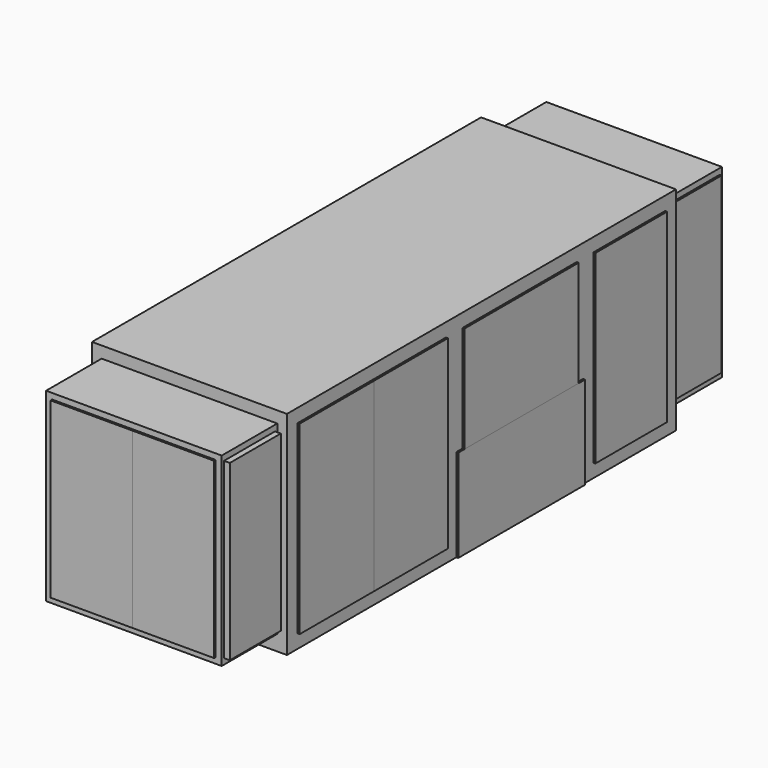
from build123d import *

# Parameters (mm, degrees)
F0_W          = 2565.4
F0_H          = 6400.8
F1_DEPTH      = 2794
F2_W          = 2311.4
F2_H          = 2438.4
F3_DEPTH      = 914.4
F3_DEPTH_BACK = 7315.2
F8_W          = 838.2
F8_H          = 2286
F7_W          = 1181.1
F7_H          = 2438.4
F7_W_2        = 2082.8
F7_H_2        = 1219.2
F13_DEPTH     = 25.4
F5_W          = 1076.325
F5_H          = 2286
F14_DEPTH     = 25.4
F15_DEPTH     = 25.4
F6_W          = 1879.6
F6_H          = 1397
F6_W_2        = 1219.2
F6_H_2        = 2438.4
F16_DEPTH     = 25.4
F10_W         = 838.2
F10_H         = 2286
F6_W_3        = 1181.1
F17_DEPTH     = 25.4
F18_DEPTH     = 76.2
F12_W         = 838.2
F12_H         = 2286
F19_DEPTH     = 76.2
F4_W          = 1076.325
F4_H          = 2286
F20_DEPTH     = 25.4
F21_DEPTH     = 25.4
F9_W          = 838.2
F9_H          = 2286
F22_DEPTH     = 25.4


with BuildPart() as f1:
    # F0 (on Top) → F1 (new body)
    with BuildSketch(Plane.XY):
        with Locations((1282.7, 3200.4)):
            Rectangle(F0_W, F0_H)
    extrude(amount=F1_DEPTH)

    # F2 (on face) → F3 (join, two sides)
    with BuildSketch(Plane.XZ) as f3_sk:
        with Locations((1282.7, 1422.4)):
            Rectangle(F2_W, F2_H)
    extrude(amount=F3_DEPTH)
    extrude(f3_sk.sketch, amount=-F3_DEPTH_BACK)


with BuildPart() as f13:
    # F8 (on face) + F7 (on face) → F13 (new body)
    with BuildSketch(Plane(origin=(127, 0, 0), x_dir=(0, -1, 0), z_dir=(-1, 0, 0))):
        with Locations((-6858, 1422.4)):
            Rectangle(F8_W, F8_H)
    with BuildSketch(Plane(origin=(0, 0, 0), x_dir=(0, -1, 0), z_dir=(-1, 0, 0))):
        with Locations((-5632.45, 1397)):
            Rectangle(F7_W, F7_H)
        with Locations((-3829.05, 609.6)):
            Rectangle(F7_W_2, F7_H_2)
    extrude(amount=F13_DEPTH)


with BuildPart() as f14:
    # F5 (on face) → F14 (new body)
    with BuildSketch(Plane(origin=(0, 7315.2, 0), x_dir=(-1, 0, 0), z_dir=(0, 1, 0))):
        with Locations((-744.5375, 1422.4)):
            Rectangle(F5_W, F5_H)
    extrude(amount=F14_DEPTH)


with BuildPart() as f15:
    # F5 (on face) → F15 (new body)
    with BuildSketch(Plane(origin=(0, 7315.2, 0), x_dir=(-1, 0, 0), z_dir=(0, 1, 0))):
        with Locations((-1820.8625, 1422.4)):
            Rectangle(F5_W, F5_H)
    extrude(amount=F15_DEPTH)


with BuildPart() as f16:
    # F6 (on face) → F16 (new body)
    with BuildSketch(Plane.YZ.offset(2565.4)):
        with Locations((3829.05, 1917.7)):
            Rectangle(F6_W, F6_H)
        with Locations((2006.6, 1397)):
            Rectangle(F6_W_2, F6_H_2)
    extrude(amount=F16_DEPTH)


with BuildPart() as f17:
    # F10 (on face) + F6 (on face) → F17 (new body)
    with BuildSketch(Plane.YZ.offset(2438.4)):
        with Locations((6858, 1422.4)):
            Rectangle(F10_W, F10_H)
    with BuildSketch(Plane.YZ.offset(2565.4)):
        with Locations((5632.45, 1397)):
            Rectangle(F6_W_3, F6_H_2)
        Polygon((2787.65, 1219.2), (2787.65, 0), (4870.45, 0), (4870.45, 1219.2), (4768.85, 1219.2), (2889.25, 1219.2), align=None)
        with Locations((787.4, 1397)):
            Rectangle(F6_W_2, F6_H_2)
    extrude(amount=F17_DEPTH)


with BuildPart() as f18:
    # F11 (on face) → F18 (new body)
    with BuildSketch(Plane(origin=(0, 0, 0), x_dir=(0, -1, 0), z_dir=(-1, 0, 0))):
        Polygon((-4768.85, 2616.2), (-4768.85, 1219.2), (-2787.65, 1219.2), (-2787.65, 177.8), (-177.8, 177.8), (-177.8, 2616.2), align=None)
    extrude(amount=F18_DEPTH)


with BuildPart() as f19:
    # F12 (on face) → F19 (new body)
    with BuildSketch(Plane.YZ.offset(2438.4)):
        with Locations((-457.2, 1422.4)):
            Rectangle(F12_W, F12_H)
    extrude(amount=F19_DEPTH)


with BuildPart() as f20:
    # F4 (on face) → F20 (new body)
    with BuildSketch(Plane.XZ.offset(914.4)):
        with Locations((1820.8625, 1422.4)):
            Rectangle(F4_W, F4_H)
    extrude(amount=F20_DEPTH)


with BuildPart() as f21:
    # F4 (on face) → F21 (new body)
    with BuildSketch(Plane.XZ.offset(914.4)):
        with Locations((744.5375, 1422.4)):
            Rectangle(F4_W, F4_H)
    extrude(amount=F21_DEPTH)


with BuildPart() as f22:
    # F9 (on face) → F22 (new body)
    with BuildSketch(Plane(origin=(127, 0, 0), x_dir=(0, -1, 0), z_dir=(-1, 0, 0))):
        with Locations((457.2, 1422.4)):
            Rectangle(F9_W, F9_H)
    extrude(amount=F22_DEPTH)


solid = Compound([f1.part, f13.part, f14.part, f15.part, f16.part, f17.part, f18.part, f19.part, f20.part, f21.part, f22.part])
